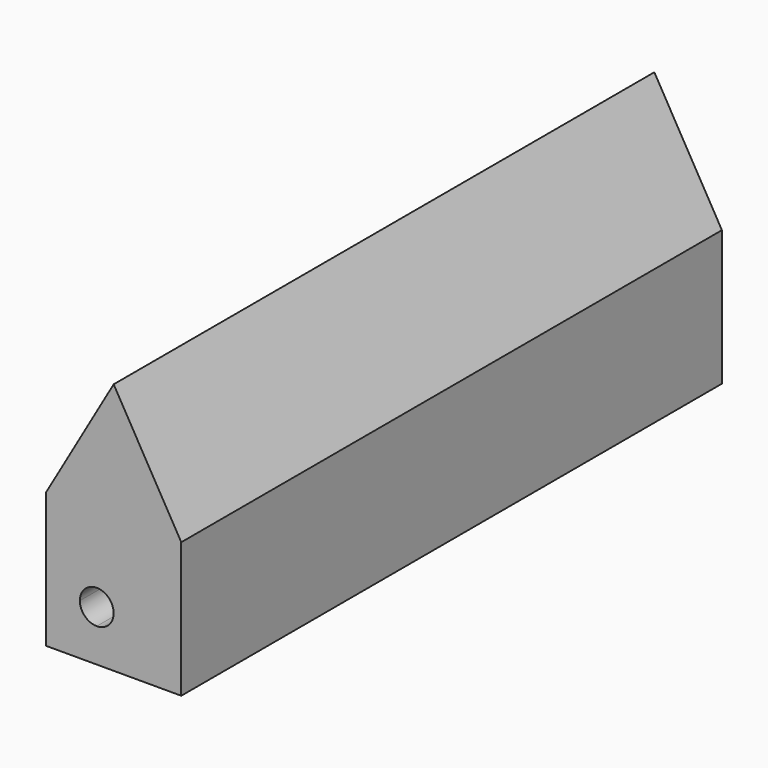
from build123d import *

# Parameters (mm, degrees)
F1_DEPTH = 254


with BuildPart() as f1:
    # F0 (on Front) → F1 (new body)
    with BuildSketch(Plane.XZ):
        with BuildLine():
            Line((25.4, -6.35), (25.4, 25.4))
            Line((25.4, 25.4), (-6.35, 25.4))
            Line((-6.35, 25.4), (-6.35, 0))
            ThreePointArc((-6.35, 0), (-1.859872, -1.859872), (0, -6.35))
            Line((0, -6.35), (25.4, -6.35))
        make_face()
        Polygon((-6.35, 25.4), (25.4, 25.4), (0, 69.394091), (-25.4, 25.4), align=None)
        with BuildLine():
            Line((-6.35, 0), (-6.35, 25.4))
            Line((-6.35, 25.4), (-25.4, 25.4))
            Line((-25.4, 25.4), (-25.4, -6.35))
            Line((-25.4, -6.35), (-12.7, -6.35))
            ThreePointArc((-12.7, -6.35), (-10.840128, -1.859872), (-6.35, 0))
        make_face()
        with BuildLine():
            Line((25.4, -25.4), (25.4, -6.35))
            Line((25.4, -6.35), (0, -6.35))
            ThreePointArc((0, -6.35), (-1.859872, -10.840128), (-6.35, -12.7))
            Line((-6.35, -12.7), (-6.35, -25.4))
            Line((-6.35, -25.4), (25.4, -25.4))
        make_face()
        with BuildLine():
            Line((-12.7, -6.35), (-25.4, -6.35))
            Line((-25.4, -6.35), (-25.4, -25.4))
            Line((-25.4, -25.4), (-6.35, -25.4))
            Line((-6.35, -25.4), (-6.35, -12.7))
            ThreePointArc((-6.35, -12.7), (-10.840128, -10.840128), (-12.7, -6.35))
        make_face()
    extrude(amount=F1_DEPTH)


solid = f1.part
